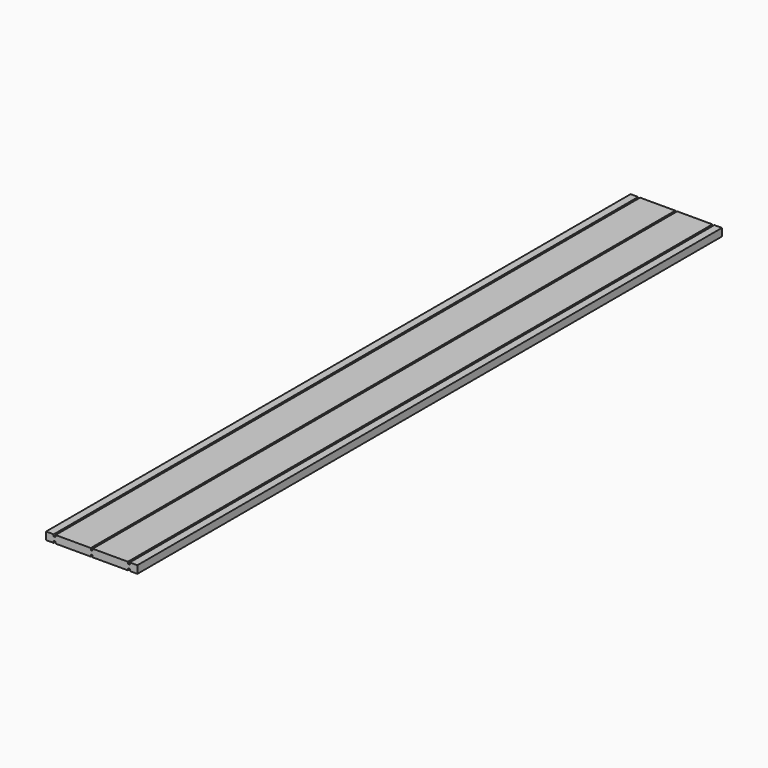
from build123d import *

# Parameters (mm, degrees)
F1_DEPTH = 2438.4


with BuildPart() as f1:
    # F0 (on Front) → F1 (new body)
    with BuildSketch(Plane.XZ):
        Polygon((0, 25.4), (0, 0), (25.4, 0), (25.4, 6.35), (31.75, 6.35), (31.75, 0), (149.225, 0), (149.225, 6.35), (155.575, 6.35), (155.575, 0), (273.05, 0), (273.05, 6.35), (279.4, 6.35), (279.4, 0), (304.8, 0), (304.8, 25.4), (279.4, 25.4), (279.4, 19.05), (273.05, 19.05), (273.05, 25.4), (155.575, 25.4), (155.575, 19.05), (149.225, 19.05), (149.225, 25.4), (31.75, 25.4), (31.75, 19.05), (25.4, 19.05), (25.4, 25.4), align=None)
    extrude(amount=F1_DEPTH)


solid = f1.part
